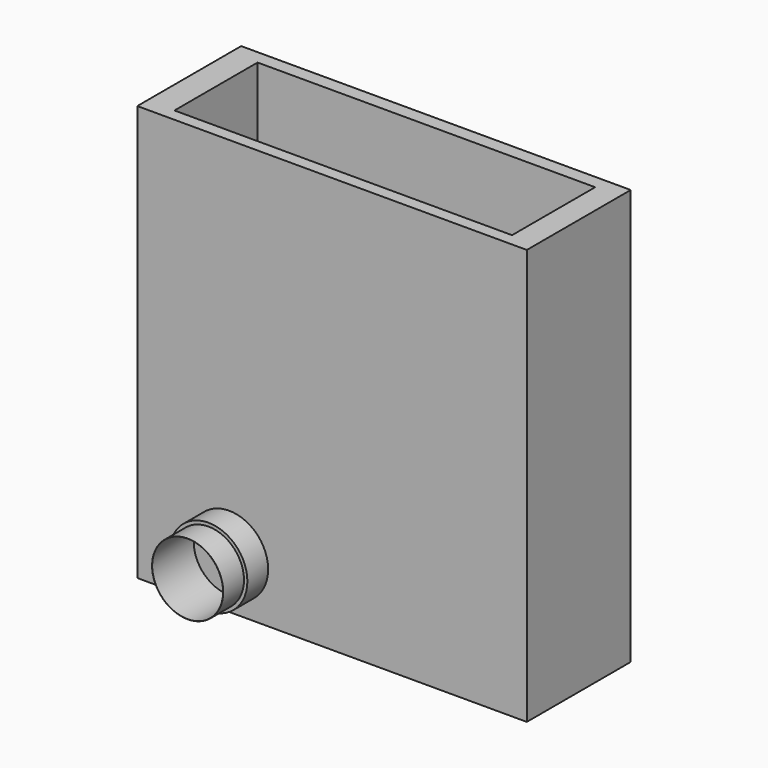
from build123d import *

# Parameters (mm, degrees)
F0_W     = 150
F0_H     = 160
F1_DEPTH = 50
F2_W     = 130
F2_H     = 40
F3_DEPTH = 155
F4_R     = 15
F5_DEPTH = 10
F6_R     = 13.698165
F7_DEPTH = 10
F8_R     = 13.6531
F9_DEPTH = 20


with BuildPart() as f1:
    # F0 (on Front) → F1 (new body)
    with BuildSketch(Plane.XZ):
        with Locations((28.931955, -3.273388)):
            Rectangle(F0_W, F0_H)
    extrude(amount=F1_DEPTH)

    # F2 (on face) → F3 (cut)
    with BuildSketch(Plane.XY.offset(76.726612)):
        with Locations((29.457796, -25.269221)):
            Rectangle(F2_W, F2_H)
    extrude(amount=-F3_DEPTH, mode=Mode.SUBTRACT)

    # F4 (on face) → F5 (join)
    with BuildSketch(Plane.XZ.offset(50)):
        with Locations((-10.681064, -63.932007)):
            Circle(F4_R)
    extrude(amount=F5_DEPTH)

    # F6 (on face) → F7 (join)
    with BuildSketch(Plane.XZ.offset(60)):
        with Locations((-10.681064, -63.932007)):
            Circle(F6_R)
    extrude(amount=F7_DEPTH)

    # F8 (on face) → F9 (cut)
    with BuildSketch(Plane.XZ.offset(70)):
        with Locations((-10.681064, -63.932007)):
            Circle(F8_R)
    extrude(amount=-F9_DEPTH, mode=Mode.SUBTRACT)


solid = f1.part
